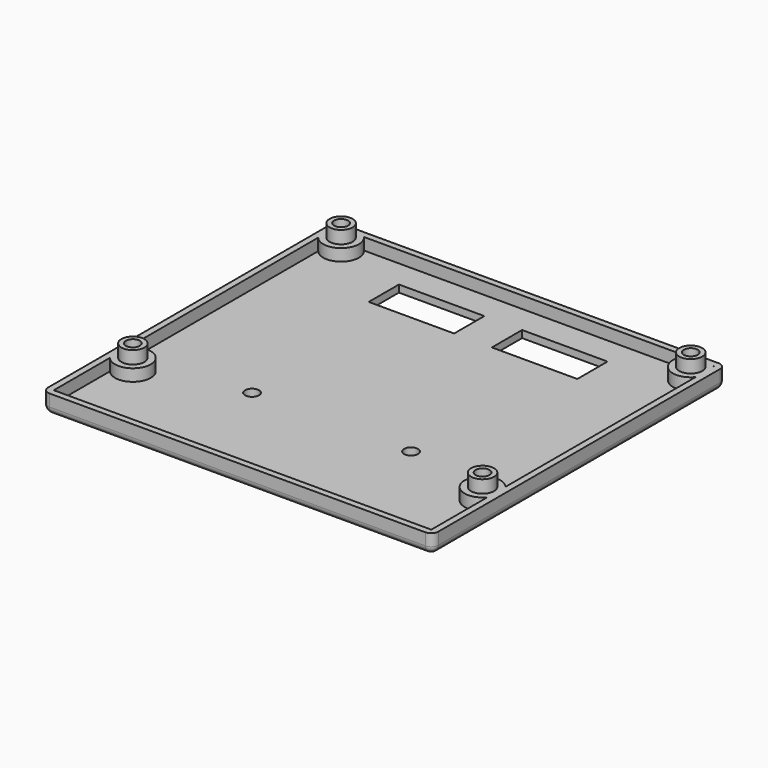
from build123d import *

# Parameters (mm, degrees)
SKETCH007_W   = 98.2
SKETCH007_H   = 92.2
SKETCH007_R   = 3
SKETCH007_R_2 = 1.75
SKETCH007_W_2 = 21.5
SKETCH007_H_2 = 9.5
PAD006_DEPTH  = 1.8
SKETCH005_W   = 98.2
SKETCH005_H   = 92.2
SKETCH005_W_2 = 95
SKETCH005_H_2 = 89
PAD007_DEPTH  = 3
SKETCH008_R   = 4.5
SKETCH008_R_2 = 3
PAD008_DEPTH  = 1.2
SKETCH009_R   = 4.5
SKETCH009_R_2 = 1.75
PAD009_DEPTH  = 1.8
SKETCH006_R   = 2.9
SKETCH006_R_2 = 1.75
PAD010_DEPTH  = 3.2
FILLET002_R   = 1.799


with BuildPart() as part:
    # Sketch007 → Pad006 (new body)
    with BuildSketch(Plane.XY):
        Rectangle(SKETCH007_W, SKETCH007_H)
        with Locations((-44, 41.5)):
            Circle(SKETCH007_R, mode=Mode.SUBTRACT)
        with Locations((44, 41.5)):
            Circle(SKETCH007_R, mode=Mode.SUBTRACT)
        with Locations((44, -24)):
            Circle(SKETCH007_R, mode=Mode.SUBTRACT)
        with Locations((-44, -24)):
            Circle(SKETCH007_R, mode=Mode.SUBTRACT)
        with Locations((-20, -16.5)):
            Circle(SKETCH007_R_2, mode=Mode.SUBTRACT)
        with Locations((20, -16.5)):
            Circle(SKETCH007_R_2, mode=Mode.SUBTRACT)
        with Locations((15.5, 32.75)):
            Rectangle(SKETCH007_W_2, SKETCH007_H_2, mode=Mode.SUBTRACT)
        with Locations((-15.5, 32.75)):
            Rectangle(SKETCH007_W_2, SKETCH007_H_2, mode=Mode.SUBTRACT)
    extrude(amount=PAD006_DEPTH)

    # Sketch005 → Pad007 (new body)
    with BuildSketch(Plane.XY.offset(1.8)):
        Rectangle(SKETCH005_W, SKETCH005_H)
        Rectangle(SKETCH005_W_2, SKETCH005_H_2, mode=Mode.SUBTRACT)
    extrude(amount=PAD007_DEPTH)

    # Sketch008 → Pad008 (new body)
    with BuildSketch(Plane.XY.offset(1.8)):
        with Locations((-44, 41.5)):
            Circle(SKETCH008_R)
        with Locations((-44, 41.5)):
            Circle(SKETCH008_R_2, mode=Mode.SUBTRACT)
        with Locations((44, 41.5)):
            Circle(SKETCH008_R)
        with Locations((44, 41.5)):
            Circle(SKETCH008_R_2, mode=Mode.SUBTRACT)
        with Locations((44, -24)):
            Circle(SKETCH008_R)
        with Locations((44, -24)):
            Circle(SKETCH008_R_2, mode=Mode.SUBTRACT)
        with Locations((-44, -24)):
            Circle(SKETCH008_R)
        with Locations((-44, -24)):
            Circle(SKETCH008_R_2, mode=Mode.SUBTRACT)
    extrude(amount=PAD008_DEPTH)

    # Sketch009 → Pad009 (new body)
    with BuildSketch(Plane.XY.offset(3)):
        with Locations((-44, 41.5)):
            Circle(SKETCH009_R)
        with Locations((-44, 41.5)):
            Circle(SKETCH009_R_2, mode=Mode.SUBTRACT)
        with Locations((44, 41.5)):
            Circle(SKETCH009_R)
        with Locations((44, 41.5)):
            Circle(SKETCH009_R_2, mode=Mode.SUBTRACT)
        with Locations((44, -24)):
            Circle(SKETCH009_R)
        with Locations((44, -24)):
            Circle(SKETCH009_R_2, mode=Mode.SUBTRACT)
        with Locations((-44, -24)):
            Circle(SKETCH009_R)
        with Locations((-44, -24)):
            Circle(SKETCH009_R_2, mode=Mode.SUBTRACT)
    extrude(amount=PAD009_DEPTH)

    # Sketch006 → Pad010 (new body)
    with BuildSketch(Plane.XY.offset(4.8)):
        with Locations((-44, 41.5)):
            Circle(SKETCH006_R)
        with Locations((-44, 41.5)):
            Circle(SKETCH006_R_2, mode=Mode.SUBTRACT)
        with Locations((44, 41.5)):
            Circle(SKETCH006_R)
        with Locations((44, 41.5)):
            Circle(SKETCH006_R_2, mode=Mode.SUBTRACT)
        with Locations((44, -24)):
            Circle(SKETCH006_R)
        with Locations((44, -24)):
            Circle(SKETCH006_R_2, mode=Mode.SUBTRACT)
        with Locations((-44, -24)):
            Circle(SKETCH006_R)
        with Locations((-44, -24)):
            Circle(SKETCH006_R_2, mode=Mode.SUBTRACT)
    extrude(amount=PAD010_DEPTH)

    # Fillet002
    fillet002_edges = [part.edges().sort_by_distance(p)[0] for p in [
        (49.1, 0, 0),
        (0, -46.1, 0),
        (-49.1, 0, 0),
        (0, 46.1, 0),
        (-49.1, 46.1, 0.9),
        (-49.1, 46.1, 3.3),
        (-49.1, -46.1, 3.3),
        (-49.1, -46.1, 0.9),
        (49.1, -46.1, 3.3),
        (49.1, -46.1, 0.9),
        (49.1, 46.1, 0.9),
        (49.1, 46.1, 3.3),
    ]]
    fillet(fillet002_edges, radius=FILLET002_R)


solid = part.part
